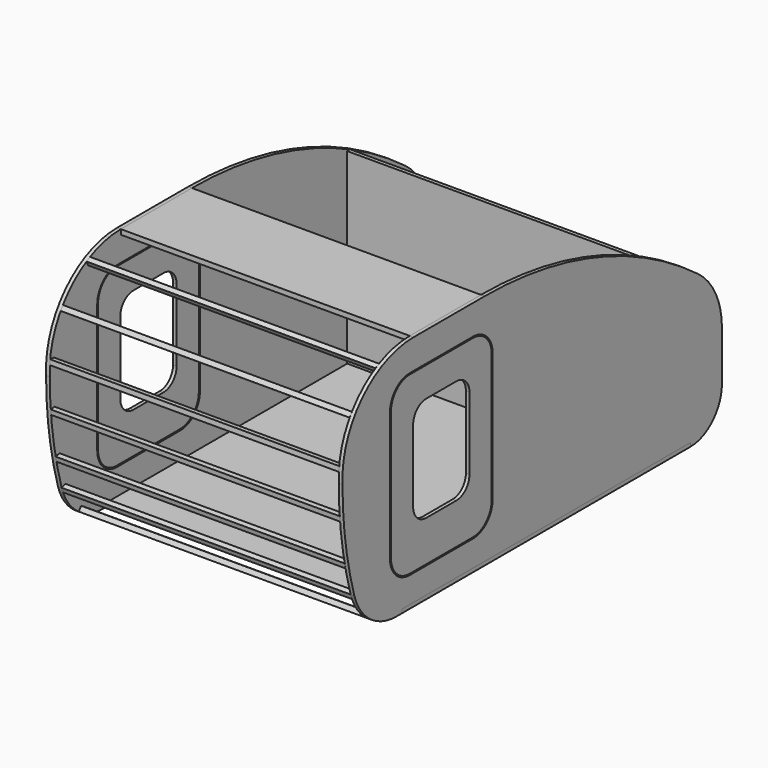
from build123d import *

# Parameters (mm, degrees)
F3_DEPTH       = 19.05
F5_DEPTH       = 25.4
F7_DEPTH       = 18.288
F9_W           = 1854.2
F9_H           = 19.05
F10_DEPTH      = 762
F10_DEPTH_BACK = 762
F11_W          = 457.2
F11_H          = 25.4
F12_DEPTH      = 1485.9
F14_DEPTH      = 1485.9
F16_DEPTH      = 1485.9
F18_DEPTH      = 1485.9
F21_DEPTH      = 1485.9
F23_DEPTH      = 1485.9
F25_DEPTH      = 1485.9
F27_DEPTH      = 1485.9
F28_W          = 19.05
F28_H          = 961.8595884721
F29_DEPTH      = 1485.9


with BuildPart() as f3:
    # F2 (on offset) → F3 (new body)
    with BuildSketch(Plane.YZ.offset(762)):
        with BuildLine():
            Line((-872.0666666667, -609.6), (1016, -609.6))
            ThreePointArc((1016, -609.6), (1159.6840979371, -550.0840979371), (1219.2, -406.4))
            Line((1219.2, -406.4), (1219.2, -152.4))
            ThreePointArc((1219.2, -152.4), (1178.9451936847, 18.0514974437), (1066.687070967, 152.484664096))
            ThreePointArc((1066.687070967, 152.484664096), (417.658564221, 492.3152671112), (-305.5061008075, 609.6))
            Line((-305.5061008075, 609.6), (-762.7061008075, 609.6))
            ThreePointArc((-762.7061008075, 609.6), (-1094.8542003053, 466.5806486721), (-1219.2, 127))
            ThreePointArc((-1219.2, 127), (-1200.0537854245, -142.4076836321), (-1143, -406.4))
            ThreePointArc((-1143, -406.4), (-1041.4, -553.1555555556), (-872.0666666667, -609.6))
        make_face()
    extrude(amount=-F3_DEPTH)

    # F4 (on face) → F5 (cut)
    with BuildSketch(Plane.YZ.offset(762)):
        with BuildLine():
            Line((-381, 457.2), (-787.4, 457.2))
            ThreePointArc((-787.4, 457.2), (-877.2025612107, 420.0025612107), (-914.4, 330.2))
            Line((-914.4, 330.2), (-914.4, -330.2))
            ThreePointArc((-914.4, -330.2), (-877.2025612107, -420.0025612107), (-787.4, -457.2))
            Line((-787.4, -457.2), (-381, -457.2))
            ThreePointArc((-381, -457.2), (-291.1974387893, -420.0025612107), (-254, -330.2))
            Line((-254, -330.2), (-254, 330.2))
            ThreePointArc((-254, 330.2), (-291.1974387893, 420.0025612107), (-381, 457.2))
        make_face()
    extrude(amount=-F5_DEPTH, mode=Mode.SUBTRACT)


with BuildPart() as f7:
    # F6 (on face) → F7 (new body)
    with BuildSketch(Plane.YZ.offset(762)):
        with BuildLine():
            Line((-260.3499808311, -330.2), (-260.3499808311, 330.2))
            ThreePointArc((-260.3499808311, 330.2), (-295.6875532954, 415.5124467046), (-381, 450.8500191689))
            Line((-381, 450.8500191689), (-787.4, 450.8500191689))
            ThreePointArc((-787.4, 450.8500191689), (-872.7124467046, 415.5124467046), (-908.0500191689, 330.2))
            Line((-908.0500191689, 330.2), (-908.0500191689, -330.2))
            ThreePointArc((-908.0500191689, -330.2), (-872.7124467046, -415.5124467046), (-787.4, -450.8500191689))
            Line((-787.4, -450.8500191689), (-381, -450.8500191689))
            ThreePointArc((-381, -450.8500191689), (-295.6875532954, -415.5124467046), (-260.3499808311, -330.2))
        make_face()
        with BuildLine():
            ThreePointArc((-403.225, -157.1624808311), (-427.8683031979, -216.6566776332), (-487.3625, -241.2999808311))
            Line((-487.3625, -241.2999808311), (-681.0375, -241.2999808311))
            ThreePointArc((-681.0375, -241.2999808311), (-740.5316968021, -216.6566776332), (-765.175, -157.1624808311))
            Line((-765.175, -157.1624808311), (-765.175, 214.3125191689))
            ThreePointArc((-765.175, 214.3125191689), (-740.5316968021, 273.8067159709), (-681.0375, 298.4500191689))
            Line((-681.0375, 298.4500191689), (-487.3625, 298.4500191689))
            ThreePointArc((-487.3625, 298.4500191689), (-427.8683031979, 273.8067159709), (-403.225, 214.3125191689))
            Line((-403.225, 214.3125191689), (-403.225, -157.1624808311))
        make_face(mode=Mode.SUBTRACT)
    extrude(amount=-F7_DEPTH)


with BuildPart() as f8_1:
    # F8: instance of F7
    add(f7.part.mirror(Plane.YZ))


with BuildPart() as f8_2:
    # F8: instance of F3
    add(f3.part.mirror(Plane.YZ))


with BuildPart() as f10:
    # F9 (on Right) → F10 (new body, two sides)
    with BuildSketch(Plane.YZ) as f10_sk:
        with Locations((88.9, -600.075)):
            Rectangle(F9_W, F9_H)
    extrude(amount=F10_DEPTH)
    extrude(f10_sk.sketch, amount=-F10_DEPTH_BACK)


with BuildPart() as f12:
    # F11 (on face) → F12 (new body, through all)
    with BuildSketch(Plane(origin=(742.95, 0, 0), x_dir=(0, -1, 0), z_dir=(-1, 0, 0))):
        with Locations((534.1061008075, 596.9)):
            Rectangle(F11_W, F11_H)
    extrude(amount=F12_DEPTH)


with BuildPart() as f14:
    # F13 (on face) → F14 (new body, through all)
    with BuildSketch(Plane(origin=(742.95, 0, 0), x_dir=(0, -1, 0), z_dir=(-1, 0, 0))):
        Polygon((971.7638361801, 530.2294133145), (983.402082032, 552.8061985926), (960.8252967539, 564.4444444444), (949.187050902, 541.8676591664), align=None)
    extrude(amount=F14_DEPTH)


with BuildPart() as f16:
    # F15 (on face) → F16 (new body, through all)
    with BuildSketch(Plane(origin=(742.95, 0, 0), x_dir=(0, -1, 0), z_dir=(-1, 0, 0))):
        Polygon((1149.2679507058, 396.5347500934), (1135.113596634, 417.6253703027), (1114.0229764248, 403.4710162309), (1128.1773304966, 382.3803960216), align=None)
    extrude(amount=F16_DEPTH)


with BuildPart() as f18:
    # F17 (on face) → F18 (new body, through all)
    with BuildSketch(Plane.YZ.offset(-742.95)):
        Polygon((-1216.8802982613, 204.9132208801), (-1219.0956875563, 179.6100185082), (-1193.7924851845, 177.3946292132), (-1191.5770958894, 202.697831585), align=None)
    extrude(amount=F18_DEPTH)


with BuildPart() as f21:
    # F20 (on face) → F21 (new body, through all)
    with BuildSketch(Plane(origin=(742.95, 0, 0), x_dir=(0, -1, 0), z_dir=(-1, 0, 0))):
        Polygon((1213.2452920093, -23.5057437357), (1187.9386290905, -21.3302410547), (1185.7631264095, -46.6369039735), (1211.0697893283, -48.8124066545), align=None)
    extrude(amount=F21_DEPTH)


with BuildPart() as f23:
    # F22 (on face) → F23 (new body, through all)
    with BuildSketch(Plane.YZ.offset(-742.95)):
        Polygon((-1156.6880989045, -244.6664041214), (-1181.5520748702, -249.8570398412), (-1176.3614391505, -274.7210158069), (-1151.4974631848, -269.5303800872), align=None)
    extrude(amount=F23_DEPTH)


with BuildPart() as f25:
    # F24 (on face) → F25 (new body, through all)
    with BuildSketch(Plane(origin=(742.95, 0, 0), x_dir=(0, -1, 0), z_dir=(-1, 0, 0))):
        Polygon((1143, -406.4), (1118.9607413114, -398.1979245492), (1110.7586658605, -422.2371832378), (1134.7979245492, -430.4392586886), align=None)
    extrude(amount=F25_DEPTH)


with BuildPart() as f27:
    # F26 (on face) → F27 (new body, through all)
    with BuildSketch(Plane.YZ.offset(-742.95)):
        Polygon((-1018.7321338238, -538.2365409985), (-1032.1871497474, -559.7800445784), (-1010.6436461675, -573.2350605019), (-997.1886302439, -551.691556922), align=None)
    extrude(amount=F27_DEPTH)


with BuildPart() as f29:
    # F28 (on face) → F29 (new body, through all)
    with BuildSketch(Plane(origin=(742.95, 0, 0), x_dir=(0, -1, 0), z_dir=(-1, 0, 0))):
        with Locations((-701.675, -109.6202057639)):
            Rectangle(F28_W, F28_H)
    extrude(amount=F29_DEPTH)


solid = Compound([f3.part, f7.part, f8_1.part, f8_2.part, f10.part, f12.part, f14.part, f16.part, f18.part, f21.part, f23.part, f25.part, f27.part, f29.part])
